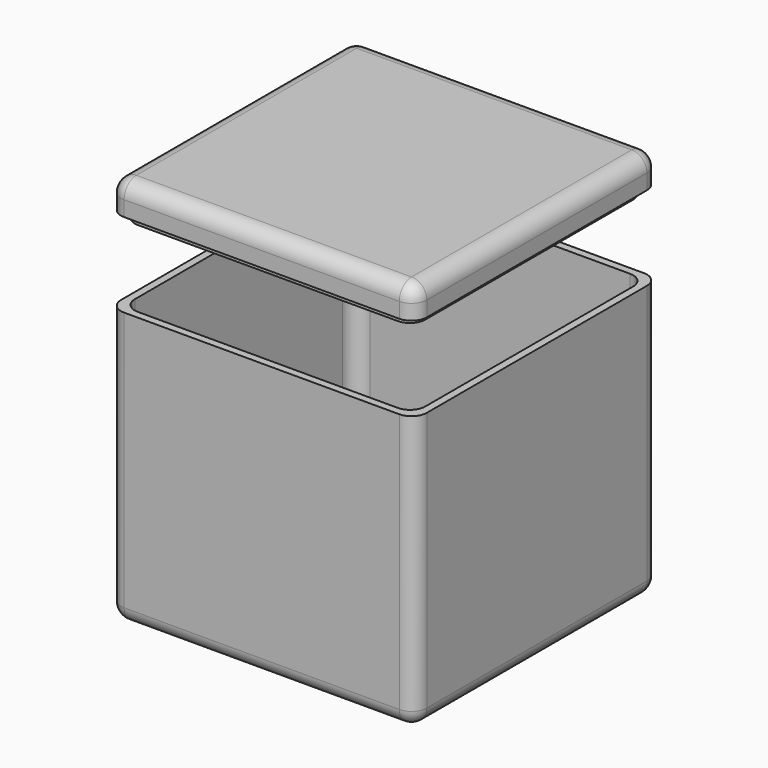
from build123d import *

# Parameters (mm, degrees)
F0_W     = 100
F0_H     = 100
F1_DEPTH = 90
F2_T     = -2.5
F4_W     = 95
F4_H     = 95
F5_DEPTH = 2.5
F6_W     = 100
F6_H     = 100
F7_DEPTH = 10
F8_R     = 5
F8_2_R   = 5
F9_R     = 5
F9_2_R   = 5


with BuildPart() as f1:
    # F0 (on Top) → F1 (new body)
    with BuildSketch(Plane.XY):
        Rectangle(F0_W, F0_H)
    extrude(amount=F1_DEPTH)

    # F2
    f2_openings = [f1.faces().sort_by_distance(p)[0] for p in [
        (0, 0, 90),
    ]]
    offset(amount=F2_T, openings=f2_openings)

    # F8
    f8_edges = [f1.edges().sort_by_distance(p)[0] for p in [
        (50, 50, 45),
        (-50, 50, 45),
        (-50, -50, 45),
        (50, -50, 45),
        (0, 50, 0),
        (-50, 0, 0),
        (0, -50, 0),
        (50, 0, 0),
    ]]
    fillet(f8_edges, radius=F8_R)

    # F9
    f9_edges = [f1.edges().sort_by_distance(p)[0] for p in [
        (-47.5, 47.5, 46.25),
        (47.5, 47.5, 46.25),
        (47.5, -47.5, 46.25),
        (-47.5, -47.5, 46.25),
    ]]
    fillet(f9_edges, radius=F9_R)


with BuildPart() as f5:
    # F4 (on offset) → F5 (new body)
    with BuildSketch(Plane.XY.offset(115)):
        Rectangle(F4_W, F4_H)
    extrude(amount=F5_DEPTH)

    # F6 (on face) → F7 (join)
    with BuildSketch(Plane.XY.offset(117.5)):
        Rectangle(F6_W, F6_H)
    extrude(amount=F7_DEPTH)

    # F8#2
    f8_2_edges = [f5.edges().sort_by_distance(p)[0] for p in [
        (50, 50, 122.5),
        (-50, 50, 122.5),
        (-50, -50, 122.5),
        (50, -50, 122.5),
        (0, 50, 127.5),
        (-50, 0, 127.5),
        (0, -50, 127.5),
        (50, 0, 127.5),
    ]]
    fillet(f8_2_edges, radius=F8_2_R)

    # F9#2
    f9_2_edges = [f5.edges().sort_by_distance(p)[0] for p in [
        (47.5, 47.5, 116.25),
        (47.5, -47.5, 116.25),
        (-47.5, -47.5, 116.25),
        (-47.5, 47.5, 116.25),
    ]]
    fillet(f9_2_edges, radius=F9_2_R)


solid = Compound([f1.part, f5.part])
